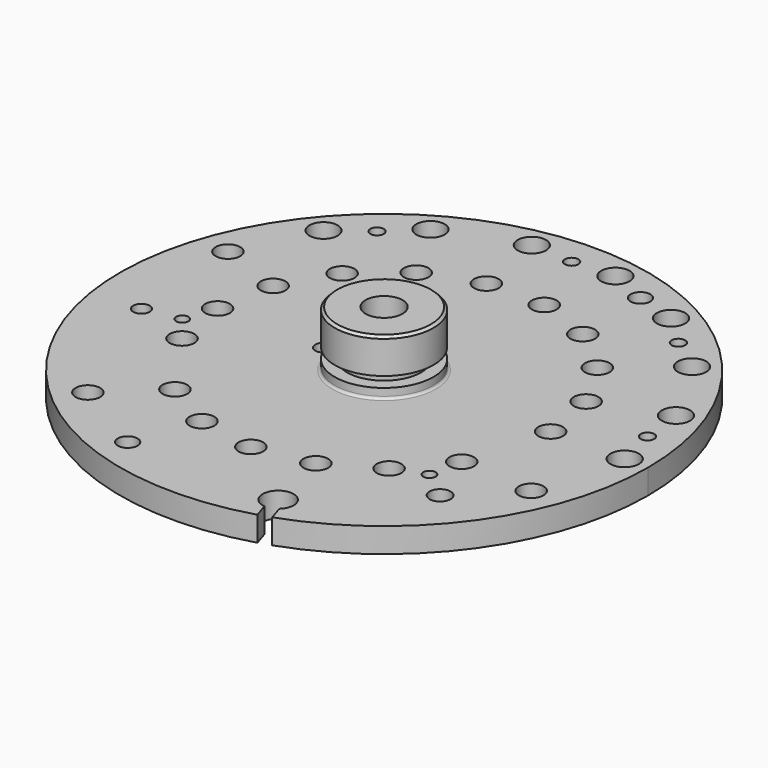
from build123d import *

# Parameters (mm, degrees)
F2_R      = 1.15
F2_R_2    = 1
F2_R_3    = 0.55
F2_R_4    = 0.8
F2_R_5    = 0.85
F2_R_6    = 0.5
F2_R_7    = 0.675
F3_DEPTH  = 6.501
F4_R      = 1
F5_R      = 0.2
F6_SIZE   = 0.2
F8_DEPTH  = 0.5
F9_R      = 0.675
F10_DEPTH = 10.701
F11_R     = 0.9
F11_R_2   = 0.675
F12_DEPTH = 1.2


with BuildPart() as f1:
    # F0 (on Front) → F1 (revolve)
    with BuildSketch(Plane.XZ):
        Polygon((3.25, 5.2), (3.25, 0), (6.5, 0), (6.5, 4.7), (21.4, 4.7), (21.4, 6.7), (4, 6.7), (4, 7.5), (3, 7.5), (3, 8.35), (4, 8.35), (4, 11.2), (1.5, 11.2), (1.5, 5.2), align=None)
    revolve(axis=Axis((0, 0, 5.6), (0, 0, 1)))

    # F2 (on face) → F3 (cut, through all)
    with BuildSketch(Plane(origin=(0, 0, 4.7), x_dir=(1, 0, 0), z_dir=(0, 0, -1))):
        with Locations((19.5, 0)):
            Circle(F2_R)
        with Locations((18.3240061053, -6.6693927949)):
            Circle(F2_R)
        with Locations((14.9378666408, -12.5343583889)):
            Circle(F2_R)
        with Locations((9.75, -16.8874953738)):
            Circle(F2_R)
        with Locations((3.3861394645, -19.2037511837)):
            Circle(F2_R)
        with Locations((-3.3861394645, -19.2037511837)):
            Circle(F2_R)
        with Locations((-9.75, -16.8874953738)):
            Circle(F2_R)
        with Locations((-14.9378666408, -12.5343583889)):
            Circle(F2_R)
        with Locations((-17.8541597949, -6.4983827232)):
            Circle(F2_R_2)
        with Locations((11.6913429511, 6.75)):
            Circle(F2_R_2)
        with Locations((8.6776327308, 10.3415999821)):
            Circle(F2_R_2)
        with Locations((12.6858503806, -4.6172719349)):
            Circle(F2_R_2)
        with Locations((13.5, 0)):
            Circle(F2_R_2)
        with Locations((10.3415999821, -8.6776327308)):
            Circle(F2_R_2)
        with Locations((6.75, -11.6913429511)):
            Circle(F2_R_2)
        with Locations((2.3442503985, -13.2949046657)):
            Circle(F2_R_2)
        with Locations((-2.3442503985, -13.2949046657)):
            Circle(F2_R_2)
        with Locations((-6.75, -11.6913429511)):
            Circle(F2_R_2)
        with Locations((-10.3415999821, -8.6776327308)):
            Circle(F2_R_2)
        with Locations((-12.6858503806, -4.6172719349)):
            Circle(F2_R_2)
        with Locations((-13.5, 0)):
            Circle(F2_R_2)
        with Locations((-12.6858503806, 4.6172719349)):
            Circle(F2_R_2)
        with Locations((-8.6776327308, 10.3415999821)):
            Circle(F2_R_2)
        with Locations((-4.6172719349, 12.6858503806)):
            Circle(F2_R_2)
        with Locations((0, 13.5)):
            Circle(F2_R_2)
        with Locations((4.6172719349, 12.6858503806)):
            Circle(F2_R_2)
        with Locations((18.7113473072, -3.2993153757)):
            Circle(F2_R_3)
        with Locations((12.212964584, -14.5548444193)):
            Circle(F2_R_3)
        with Locations((0, -19)):
            Circle(F2_R_3)
        with Locations((-12.212964584, -14.5548444193)):
            Circle(F2_R_3)
        with Locations((6.4983827232, -17.8541597949)):
            Circle(F2_R_4)
        with Locations((17.6164932368, 7.1175252749)):
            Circle(F2_R_2)
        with Locations((13.5, 11.2)):
            Circle(F2_R_5)
        with Locations((11.1842488695, 9.3846991014)):
            Circle(F2_R_6)
        with Locations((-6.4983827232, 17.8541597949)):
            Circle(F2_R_4)
        with Locations((-12.7134815208, 14.1197516841)):
            Circle(F2_R_2)
        with Locations((-17.2341356777, 3.0388431092)):
            Circle(F2_R_7)
        with Locations((-14.3341356777, 2.5274948651)):
            Circle(F2_R_6)
        with BuildLine():
            Line((6.1356301693, 20.5015619509), (5.7498180769, 19.3141544258))
            ThreePointArc((5.7498180769, 19.3141544258), (5.4850516502, 16.8812531642), (6.7008745932, 19.0051374314))
            Line((6.7008745932, 19.0051374314), (7.0866866856, 20.1925449565))
            ThreePointArc((7.0866866856, 20.1925449565), (6.6129636796, 20.3526094487), (6.1356301693, 20.5015619509))
        make_face()
    extrude(amount=-F3_DEPTH, mode=Mode.SUBTRACT)

    # F4
    f4_edges = [f1.edges().sort_by_distance(p)[0] for p in [
        (-6.5, 0, 4.7),
    ]]
    fillet(f4_edges, radius=F4_R)

    # F5
    f5_edges = [f1.edges().sort_by_distance(p)[0] for p in [
        (-4, 0, 6.7),
    ]]
    fillet(f5_edges, radius=F5_R)

    # F6
    f6_edges = [f1.edges().sort_by_distance(p)[0] for p in [
        (-4, 0, 11.2),
    ]]
    chamfer(f6_edges, length=F6_SIZE)

    # F7 (on face) → F8 (cut)
    with BuildSketch(Plane(origin=(0, 0, 0), x_dir=(1, 0, 0), z_dir=(0, 0, -1))):
        with BuildLine():
            ThreePointArc((-5.8896094947, 2.75), (-6.5, 0), (-5.8896094947, -2.75))
            Line((-5.8896094947, -2.75), (-1.7320508076, -2.75))
            ThreePointArc((-1.7320508076, -2.75), (-3.25, 0), (-1.7320508076, 2.75))
            Line((-1.7320508076, 2.75), (-5.8896094947, 2.75))
        make_face()
        with BuildLine():
            Line((1.7320508076, -2.75), (5.8896094947, -2.75))
            ThreePointArc((5.8896094947, -2.75), (6.3455678121, -1.4084633976), (6.5, 0))
            ThreePointArc((6.5, 0), (6.3455678121, 1.4084633976), (5.8896094947, 2.75))
            Line((5.8896094947, 2.75), (1.7320508076, 2.75))
            ThreePointArc((1.7320508076, 2.75), (2.8453176558, 1.5705627774), (3.25, 0))
            ThreePointArc((3.25, 0), (2.8453176558, -1.5705627774), (1.7320508076, -2.75))
        make_face()
    extrude(amount=-F8_DEPTH, mode=Mode.SUBTRACT)

    # F9 (on face) → F10 (cut, through all)
    with BuildSketch(Plane(origin=(0, 0, 0.5), x_dir=(1, 0, 0), z_dir=(0, 0, -1))):
        with Locations((-4.9, 0)):
            Circle(F9_R)
    extrude(amount=-F10_DEPTH, mode=Mode.SUBTRACT)

    # F11 (on face) → F12 (cut)
    with BuildSketch(Plane(origin=(0, 0, 0.5), x_dir=(1, 0, 0), z_dir=(0, 0, -1))):
        with Locations((-4.9, 0)):
            Circle(F11_R)
        with Locations((-4.9, 0)):
            Circle(F11_R_2, mode=Mode.SUBTRACT)
        with Locations((-4.9, 0)):
            Circle(F11_R_2)
    extrude(amount=-F12_DEPTH, mode=Mode.SUBTRACT)


solid = f1.part
